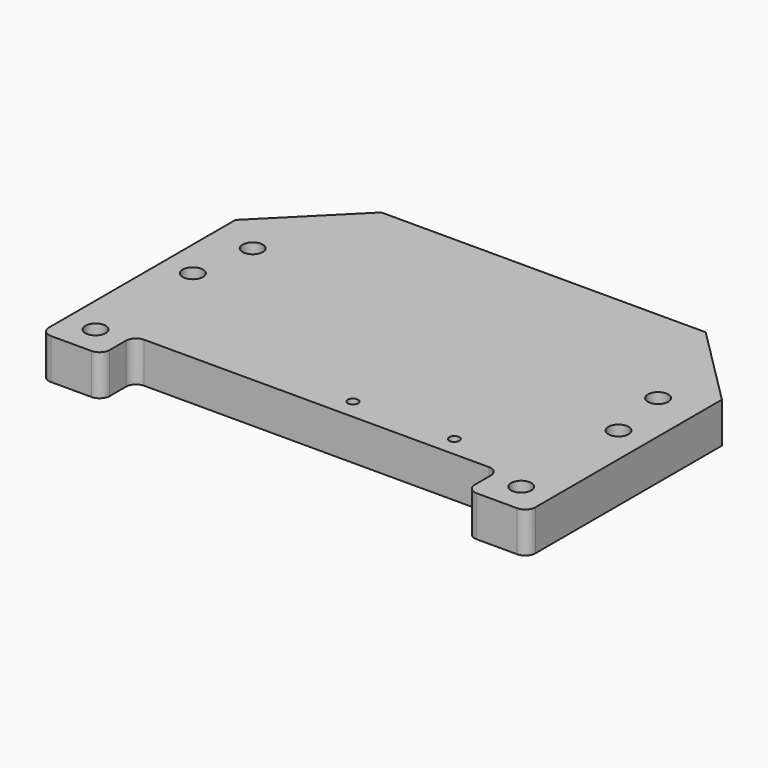
from build123d import *

# Parameters (mm, degrees)
F0_W           = 304.8
F0_H           = 203.2
F1_DEPTH       = 25.4
F3_SIZE        = 50.8
F4_W           = 228.6
F4_H           = 25.4
F5_DEPTH       = 25.4
F6_R           = 6.35
F8_D           = 9.525
F8_CBORE_D     = 12.7
F8_CBORE_DEPTH = 12.7
F10_D          = 6.35
F12_D          = 12.7
F12_DEPTH      = 12.7
F12_TIP        = 3.8154649308


with BuildPart() as f1:
    # F0 (on Top) → F1 (new body)
    with BuildSketch(Plane.XY):
        with Locations((0.9524989873, 1.4589339421)):
            Rectangle(F0_W, F0_H)
    extrude(amount=F1_DEPTH)

    # F3
    f3_edges = [f1.edges().sort_by_distance(p)[0] for p in [
        (-151.447501, 103.058934, 12.7),
        (153.352499, 103.058934, 12.7),
    ]]
    chamfer(f3_edges, length=F3_SIZE)

    # F4 (on face) → F5 (cut)
    with BuildSketch(Plane.XZ.offset(100.1410660579)):
        with Locations((0.9524989873, 12.7)):
            Rectangle(F4_W, F4_H)
    extrude(amount=-F5_DEPTH, mode=Mode.SUBTRACT)

    # F6
    f6_edges = [f1.edges().sort_by_distance(p)[0] for p in [
        (-113.347501, -100.141066, 12.7),
        (-113.347501, -74.741066, 12.7),
        (115.252499, -74.741066, 12.7),
        (115.252499, -100.141066, 12.7),
        (153.352499, -100.141066, 12.7),
        (-151.447501, -100.141066, 12.7),
    ]]
    fillet(f6_edges, radius=F6_R)

    # F8 (through all)
    with Locations(Plane.XY.offset(25.4)):
        with Locations((-132.3975010127, -81.0910660579), (-132.3975010127, -4.8910660579), (134.3024989873, -4.8910660579), (134.3024989873, -81.0910660579)):
            CounterBoreHole(F8_D / 2, F8_CBORE_D / 2, F8_CBORE_DEPTH)

    # F10 (through all)
    with Locations(Plane.XY.offset(25.4)):
        with Locations((13.6524989873, -62.0410660579), (77.1524989873, -62.0410660579)):
            Hole(F10_D / 2)

    # F12
    with Locations(Plane.XY.offset(25.4)):
        with Locations((-126.0475010127, 34.0471339421), (127.9524989873, 34.0471339421)):
            Hole(F12_D / 2, depth=F12_DEPTH)
            with Locations((0, 0, -(F12_DEPTH + F12_TIP / 2))):  # 118° drill point
                Cone(0, F12_D / 2, F12_TIP, mode=Mode.SUBTRACT)


solid = f1.part
